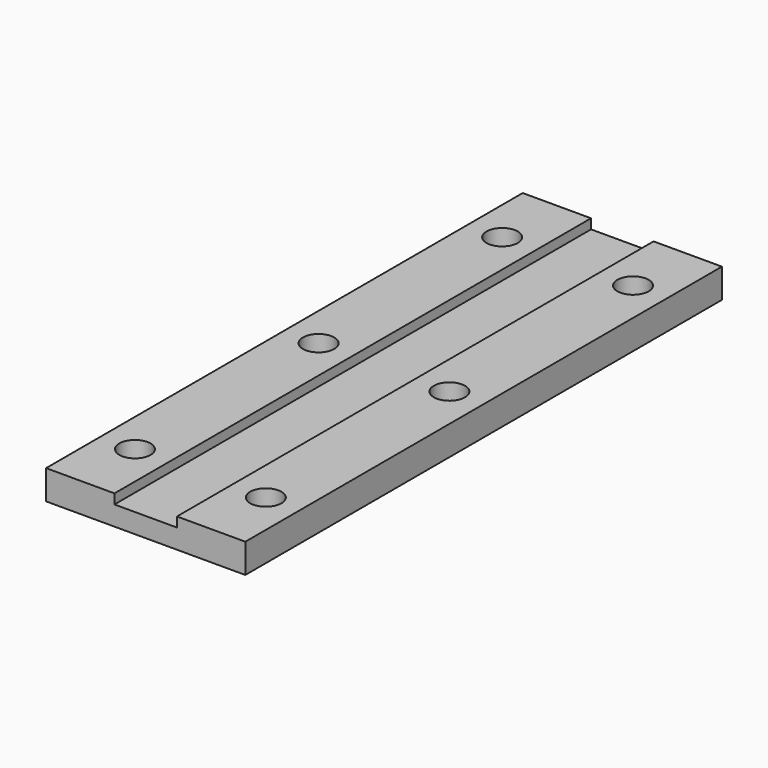
from build123d import *

# Parameters (mm, degrees)
SKETCH_R     = 1.6
PAD_DEPTH    = 3
SKETCH001_W  = 6.4
SKETCH001_H  = 89.324535
POCKET_DEPTH = 1


with BuildPart() as part:
    # Sketch → Pad (new body)
    with BuildSketch(Plane.XY):
        Polygon((18, 0), (18, 61), (38.4, 61), (38.400002, 0), align=None)
        with Locations((21.5, 54)):
            Circle(SKETCH_R, mode=Mode.SUBTRACT)
        with Locations((21.5, 7)):
            Circle(SKETCH_R, mode=Mode.SUBTRACT)
        with Locations((34.9, 7)):
            Circle(SKETCH_R, mode=Mode.SUBTRACT)
        with Locations((34.900002, 54)):
            Circle(SKETCH_R, mode=Mode.SUBTRACT)
        with Locations((34.9, 30.5)):
            Circle(SKETCH_R, mode=Mode.SUBTRACT)
        with Locations((21.5, 30.5)):
            Circle(SKETCH_R, mode=Mode.SUBTRACT)
    extrude(amount=PAD_DEPTH)

    # Sketch001 (on Face12 of Pad) → Pocket (cut)
    with BuildSketch(Plane.XY.offset(3)):
        with Locations((28.2, 34.865138)):
            Rectangle(SKETCH001_W, SKETCH001_H)
    extrude(amount=-POCKET_DEPTH, mode=Mode.SUBTRACT)


solid = part.part
